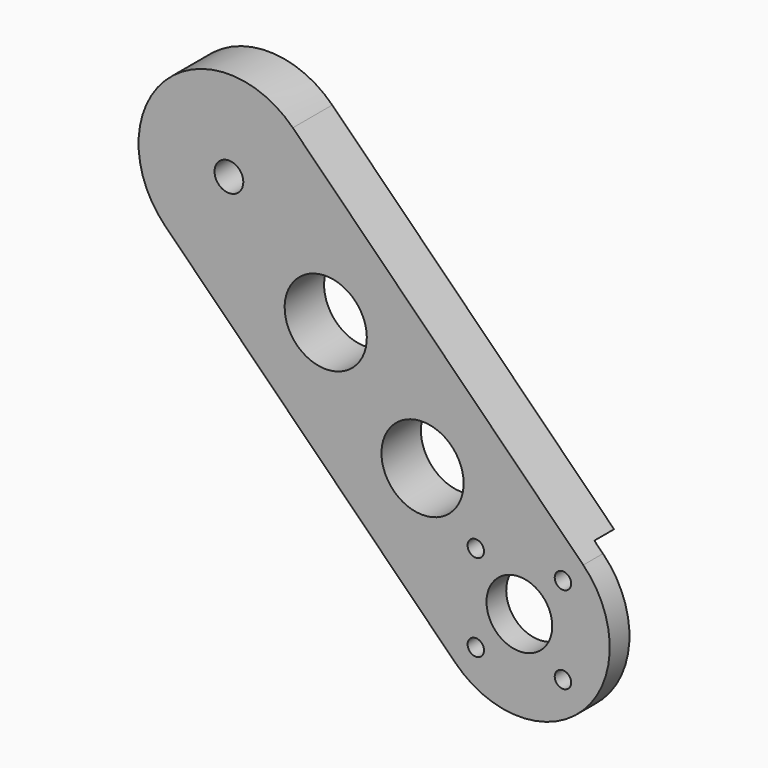
from build123d import *

# Parameters (mm, degrees)
CYLINDER020_R             = 11.1
CYLINDER020_DEPTH         = 26
CYLINDER019_R             = 4
CYLINDER019_DEPTH         = 43
CYLINDER021_R             = 1
CYLINDER021_DEPTH         = 31
CYLINDER024_R             = 1
CYLINDER024_DEPTH         = 31
CYLINDER023_R             = 1
CYLINDER023_DEPTH         = 31
CYLINDER022_R             = 1
CYLINDER022_DEPTH         = 31
FUSION002_ROLL_ANGLE      = -90
FUSION003_PLACEMENT_ANGLE = 180
SKETCH_R                  = 5
SKETCH_R_2                = 1.75
PAD_DEPTH                 = 6
CUT_PITCH_ANGLE           = 90
CLONE020_PITCH_ANGLE      = 45


with BuildPart() as cylinder141:
    # Cylinder020 → Cylinder020 (new body)
    with BuildSketch(Plane(origin=(-3, 71, 73), x_dir=(0, 0, 1), z_dir=(0, -1, 0))):
        Circle(CYLINDER020_R)
    extrude(amount=CYLINDER020_DEPTH)


with BuildPart() as fusion001:
    # Cylinder019 → Cylinder019 (new body)
    with BuildSketch(Plane(origin=(-3, 66, 73), x_dir=(0, 0, 1), z_dir=(0, -1, 0))):
        Circle(CYLINDER019_R)
    extrude(amount=CYLINDER019_DEPTH)

    # Fusion001: union Cylinder141
    add(cylinder141.part)


with BuildPart() as cylinder096:
    # Cylinder021 → Cylinder021 (new body)
    with BuildSketch(Plane(origin=(-7.5, -11, 132), x_dir=(1, 0, 0), z_dir=(0, 0, 1))):
        Circle(CYLINDER021_R)
    extrude(amount=CYLINDER021_DEPTH)


with BuildPart() as cylinder146:
    # Cylinder024 → Cylinder024 (new body)
    with BuildSketch(Plane(origin=(0, -3.5, 132), x_dir=(1, 0, 0), z_dir=(0, 0, 1))):
        Circle(CYLINDER024_R)
    extrude(amount=CYLINDER024_DEPTH)


with BuildPart() as cylinder145:
    # Cylinder023 → Cylinder023 (new body)
    with BuildSketch(Plane(origin=(7.5, -11, 132), x_dir=(1, 0, 0), z_dir=(0, 0, 1))):
        Circle(CYLINDER023_R)
    extrude(amount=CYLINDER023_DEPTH)


with BuildPart() as fusion003:
    # Cylinder022 → Cylinder022 (new body)
    with BuildSketch(Plane(origin=(0, -18.5, 132), x_dir=(1, 0, 0), z_dir=(0, 0, 1))):
        Circle(CYLINDER022_R)
    extrude(amount=CYLINDER022_DEPTH)

    # Fusion002: union Cylinder096, Cylinder146, Cylinder145
    add(cylinder096.part)
    add(cylinder146.part)
    add(cylinder145.part)


with BuildPart() as fusion003_1:
    # Fusion002 roll: moved
    add(fusion003.part.rotate(Axis((0, 0, 0), (1, 0, 0)), FUSION002_ROLL_ANGLE))


with BuildPart() as fusion003_2:
    # Fusion002 placement: moved
    add(fusion003_1.part.moved(Location((-3, -97.5, 62))))

    # Fusion003: union Fusion001
    add(fusion001.part)


with BuildPart() as fusion003_3:
    # Fusion003 placement: moved
    add(fusion003_2.part.moved(Location((-0.5, 88, -87))).rotate(Axis((-0.5, 88, -87), (0, 0, 1)), FUSION003_PLACEMENT_ANGLE))


with BuildPart() as clone_of_cut:
    # Sketch → Pad (new body)
    with BuildSketch(Plane(origin=(-11.5, 40, -16.5), x_dir=(0, 0, -1), z_dir=(0, 1, 0))):
        with BuildLine():
            Line((-2.5, -3), (47.5, -3))
            ThreePointArc((47.5, -25), (58.5, -14), (47.5, -3))
            Line((-2.5, -25), (47.5, -25))
            ThreePointArc((-2.5, -3), (-13.5, -14), (-2.5, -25))
        make_face()
        with Locations((14.166667, -14)):
            Circle(SKETCH_R, mode=Mode.SUBTRACT)
        with Locations((30.833333, -14)):
            Circle(SKETCH_R, mode=Mode.SUBTRACT)
        with Locations((47.5, -14)):
            Circle(SKETCH_R_2, mode=Mode.SUBTRACT)
    extrude(amount=PAD_DEPTH)

    # Cut: cut Fusion003
    add(fusion003_3.part, mode=Mode.SUBTRACT)


with BuildPart() as clone_of_cut_1:
    # Cut pitch: moved
    add(clone_of_cut.part.rotate(Axis((0, 0, 0), (0, 1, 0)), CUT_PITCH_ANGLE))


with BuildPart() as clone_of_cut_2:
    # Cut placement: moved
    add(clone_of_cut_1.part.moved(Location((16.5, -87, -15))))


with BuildPart() as clone_of_cut_3:
    # Clone010 placement: moved
    add(clone_of_cut_2.part.moved(Location((0, 0, -22.5))))


with BuildPart() as clone020:
    # Part__Mirroring026: instance of Clone of Cut
    add(clone_of_cut_3.part.mirror(Plane(origin=(0, 0, 0), x_dir=(1, 0, 0), z_dir=(0, 1, 0))))


with BuildPart() as clone020_1:
    # Clone020 pitch: moved
    add(clone020.part.rotate(Axis((0, 0, 0), (0, 1, 0)), CLONE020_PITCH_ANGLE))


with BuildPart() as clone020_2:
    # Clone020 placement: moved
    add(clone020_1.part.moved(Location((29.016504, 0, -80.65864))))


solid = clone020_2.part
